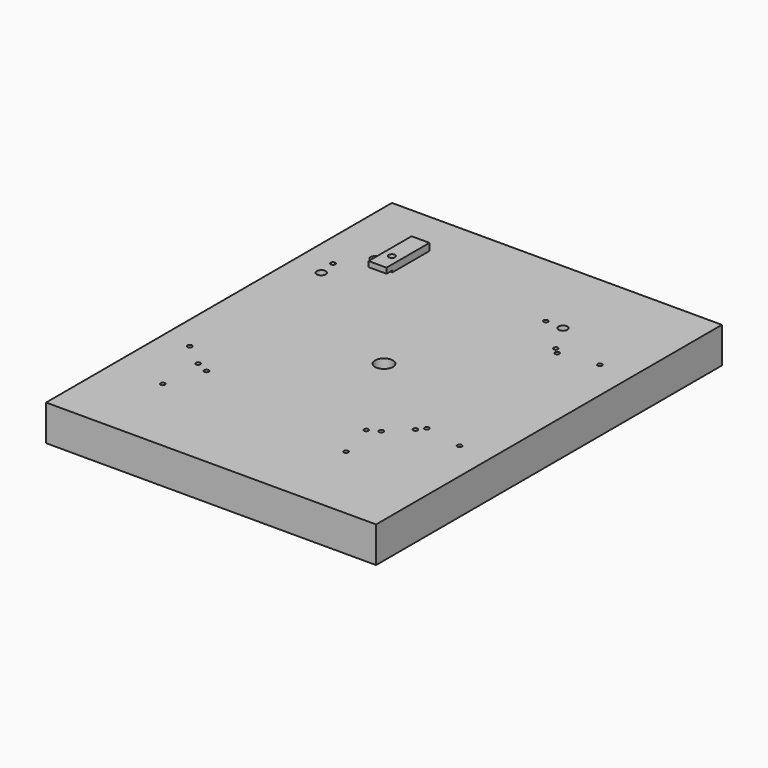
from build123d import *

# Parameters (mm, degrees)
F0_W     = 234.1201396201
F0_H     = 306.6780995233
F1_DEPTH = 25.4
F2_D     = 6.35
F2_DEPTH = 12.7
F2_TIP   = 1.9077324654
F3_D     = 3.175
F3_DEPTH = 12.7
F3_TIP   = 0.9538662327
F4_W     = 12.7
F4_H     = 38.1
F4_R     = 2.286
F5_DEPTH = 5.08
F6_W     = 12.7
F6_H     = 5.2324
F7_DEPTH = 1.27
F8_D     = 12.7
F8_DEPTH = 12.7
F8_TIP   = 3.8154649308


with BuildPart() as f1:
    # F0 (on Top) → F1 (new body)
    with BuildSketch(Plane.XY):
        Rectangle(F0_W, F0_H)
    extrude(amount=-F1_DEPTH)

    # F2
    with Locations(Plane.XY):
        with Locations((-82.55, 95.25), (-95.25, 63.5), (50.8, 95.25)):
            Hole(F2_D / 2, depth=F2_DEPTH)
            with Locations((0, 0, -(F2_DEPTH + F2_TIP / 2))):  # 118° drill point
                Cone(0, F2_D / 2, F2_TIP, mode=Mode.SUBTRACT)

    # F3
    with Locations(Plane.XY):
        with Locations((-71.12, 95.885), (38.1, 95.885), (-97.155, -50.8), (-97.155, 76.2), (62.9412, 73.66), (67.0052, 69.85), (94.2594, 73.66), (62.9412, -50.8), (67.0052, -45.72), (94.2594, -50.8), (-80.4749578238, -64.2112), (-71.3289007545, -68.2752), (-80.4749578238, -95.5294), (49.5099201798, -95.5294), (42.0267805457, -68.2752), (49.5099201798, -64.2112)):
            Hole(F3_D / 2, depth=F3_DEPTH)
            with Locations((0, 0, -(F3_DEPTH + F3_TIP / 2))):  # 118° drill point
                Cone(0, F3_D / 2, F3_TIP, mode=Mode.SUBTRACT)

    # F8
    with Locations(Plane.XY):
        with Locations((0, 0)):
            Hole(F8_D / 2, depth=F8_DEPTH)
            with Locations((0, 0, -(F8_DEPTH + F8_TIP / 2))):  # 118° drill point
                Cone(0, F8_D / 2, F8_TIP, mode=Mode.SUBTRACT)


with BuildPart() as f5:
    # F4 (on face) → F5 (new body)
    with BuildSketch(Plane.XY):
        with Locations((-71.12, 102.235)):
            Rectangle(F4_W, F4_H)
        with Locations((-71.12, 95.885)):
            Circle(F4_R, mode=Mode.SUBTRACT)
    extrude(amount=F5_DEPTH)

    # F6 (on face) → F7 (cut)
    with BuildSketch(Plane(origin=(0, 0, 0), x_dir=(1, 0, 0), z_dir=(0, 0, -1))):
        with Locations((-71.12, -85.8012)):
            Rectangle(F6_W, F6_H)
    extrude(amount=-F7_DEPTH, mode=Mode.SUBTRACT)


solid = Compound([f1.part, f5.part])
